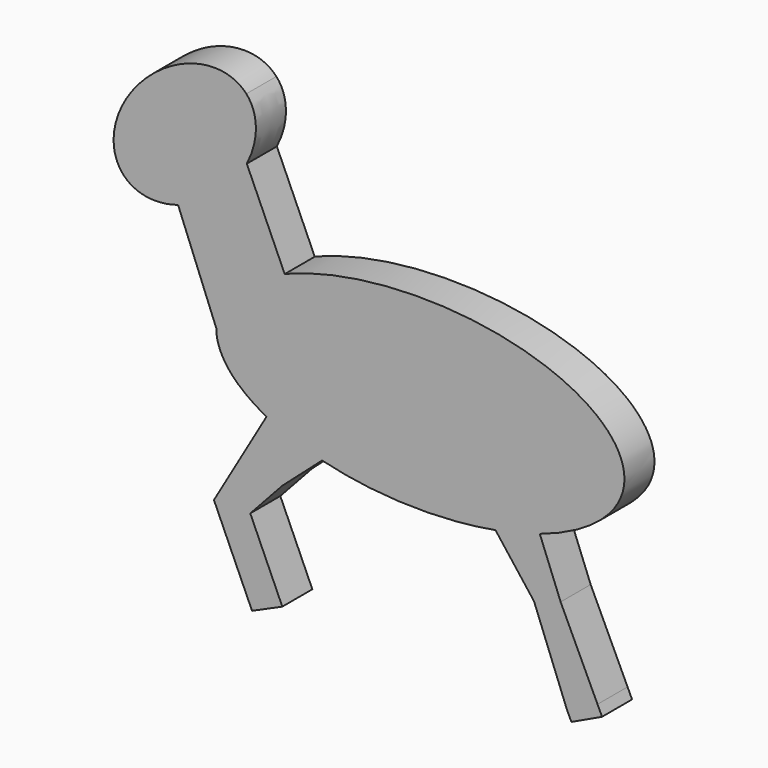
from build123d import *

# Parameters (mm, degrees)
F1_DEPTH = 7.874


with BuildPart() as f1:
    # F0 (on Front) → F1 (new body)
    with BuildSketch(Plane.XZ):
        with BuildLine():
            add(Edge.make_bspline(
                [(-4.365822, -6.306311), (13.369004, -0.434818), (13.369004, 9.594223)],
                knots=[5.337823, 5.337823, 5.337823, 6.283185, 6.283185, 6.283185], degree=2, weights=[1, 0.890351, 1]))
            add(Edge.make_bspline(
                [(13.369004, 9.594223), (13.369004, 53.288211), (-57.84403, 24.249096)],
                knots=[0, 0, 0, 2.297757, 2.297757, 2.297757], degree=2, weights=[1, 0.409511, 1]))
            add(Edge.make_bspline(
                [(-57.84403, 24.249096), (-72.192627, 18.398053), (-72.192627, 9.594223)],
                knots=[2.297757, 2.297757, 2.297757, 3.141593, 3.141593, 3.141593], degree=2, weights=[1, 0.912305, 1]))
            add(Edge.make_bspline(
                [(-72.192627, 9.594223), (-72.192627, 2.240206), (-61.646201, -3.300882)],
                knots=[3.141593, 3.141593, 3.141593, 3.859053, 3.859053, 3.859053], degree=2, weights=[1, 0.936343, 1]))
            add(Edge.make_bspline(
                [(-61.646201, -3.300882), (-56.657354, -5.92202), (-50.006551, -7.596681)],
                knots=[3.859053, 3.859053, 3.859053, 4.210136, 4.210136, 4.210136], degree=2, weights=[1, 0.984632, 1]))
            add(Edge.make_bspline(
                [(-50.006551, -7.596681), (-32.364998, -12.038794), (-13.653027, -8.639756)],
                knots=[4.210136, 4.210136, 4.210136, 5.089634, 5.089634, 5.089634], degree=2, weights=[1, 0.904859, 1]))
            add(Edge.make_bspline(
                [(-13.653027, -8.639756), (-8.691986, -7.738581), (-4.365822, -6.306311)],
                knots=[5.089634, 5.089634, 5.089634, 5.337823, 5.337823, 5.337823], degree=2, weights=[1, 0.99231, 1]))
        make_face()
        with BuildLine():
            add(Edge.make_bspline(
                [(-57.84403, 24.249096), (-72.192627, 18.398053), (-72.192627, 9.594223)],
                knots=[2.297757, 2.297757, 2.297757, 3.141593, 3.141593, 3.141593], degree=2, weights=[1, 0.912305, 1]))
            Line((-57.84403, 24.249096), (-65.787782, 42.025135))
            add(Edge.make_bspline(
                [(-80.196021, 29.737009), (-70.538827, 32.763456), (-65.787782, 42.025135)],
                knots=[4.092473, 4.092473, 4.092473, 5.245541, 5.245541, 5.245541], degree=2, weights=[1, 0.838357, 1]))
            Line((-80.196021, 29.737009), (-72.192627, 9.594223))
        make_face()
        with BuildLine():
            Line((0, -17.44849), (-4.365822, -6.306311))
            add(Edge.make_bspline(
                [(-13.653027, -8.639756), (-8.691986, -7.738581), (-4.365822, -6.306311)],
                knots=[5.089634, 5.089634, 5.089634, 5.337823, 5.337823, 5.337823], degree=2, weights=[1, 0.99231, 1]))
            Line((-13.653027, -8.639756), (-5.571466, -19.153535))
            Line((-5.571466, -19.153535), (1.301067, -36.858202))
            Line((1.301067, -36.858202), (2.25727, -38.85963))
            Line((2.25727, -38.85963), (8.68047, -35.82562))
            Line((8.68047, -35.82562), (7.733117, -33.820012))
            Line((7.733117, -33.820012), (0, -17.44849))
        make_face()
        with BuildLine():
            add(Edge.make_bspline(
                [(-80.196021, 29.737009), (-70.538827, 32.763456), (-65.787782, 42.025135)],
                knots=[4.092473, 4.092473, 4.092473, 5.245541, 5.245541, 5.245541], degree=2, weights=[1, 0.838357, 1]))
            add(Edge.make_bspline(
                [(-65.787782, 42.025135), (-61.615629, 50.158324), (-65.890916, 54.896768)],
                knots=[5.245541, 5.245541, 5.245541, 6.283185, 6.283185, 6.283185], degree=2, weights=[1, 0.868404, 1]))
            add(Edge.make_bspline(
                [(-65.890916, 54.896768), (-78.167023, 68.502792), (-91.357043, 45.304241), (-104.547063, 22.10569), (-80.196021, 29.737009)],
                knots=[0, 0, 0, 2.046237, 2.046237, 4.092473, 4.092473, 4.092473], degree=2, weights=[1, 0.520706, 1, 0.520706, 1]))
        make_face()
        with BuildLine():
            add(Edge.make_bspline(
                [(-61.646201, -3.300882), (-56.657354, -5.92202), (-50.006551, -7.596681)],
                knots=[3.859053, 3.859053, 3.859053, 4.210136, 4.210136, 4.210136], degree=2, weights=[1, 0.984632, 1]))
            Line((-61.646201, -3.300882), (-68.436048, -14.97456))
            Line((-68.436048, -14.97456), (-72.676678, -22.265408))
            Line((-72.676678, -22.265408), (-64.693462, -40.129757))
            Line((-64.693462, -40.129757), (-58.346123, -37.29326))
            Line((-58.346123, -37.29326), (-65.061766, -22.265408))
            Line((-65.061766, -22.265408), (-58.346123, -14.97456))
            Line((-58.346123, -14.97456), (-50.006551, -7.596681))
        make_face()
    extrude(amount=F1_DEPTH)


solid = f1.part
